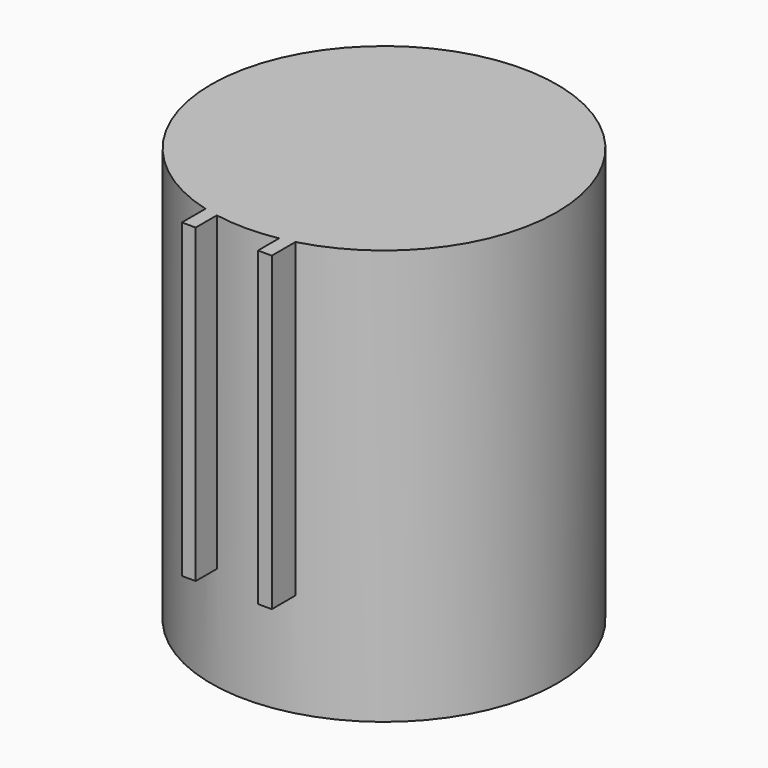
from build123d import *

# Parameters (mm, degrees)
F0_R     = 250
F1_DEPTH = 600
F2_W     = 20
F2_H     = 450
F3_DEPTH = 300


with BuildPart() as f1:
    # F0 (on Top) → F1 (new body)
    with BuildSketch(Plane.XY):
        with Locations((0, -15.917291)):
            Circle(F0_R)
    extrude(amount=F1_DEPTH)

    # F2 (on Front) → F3 (join)
    with BuildSketch(Plane.XZ):
        with Locations((55, 375)):
            Rectangle(F2_W, F2_H)
        with Locations((-55, 375)):
            Rectangle(F2_W, F2_H)
    extrude(amount=F3_DEPTH)


solid = f1.part
